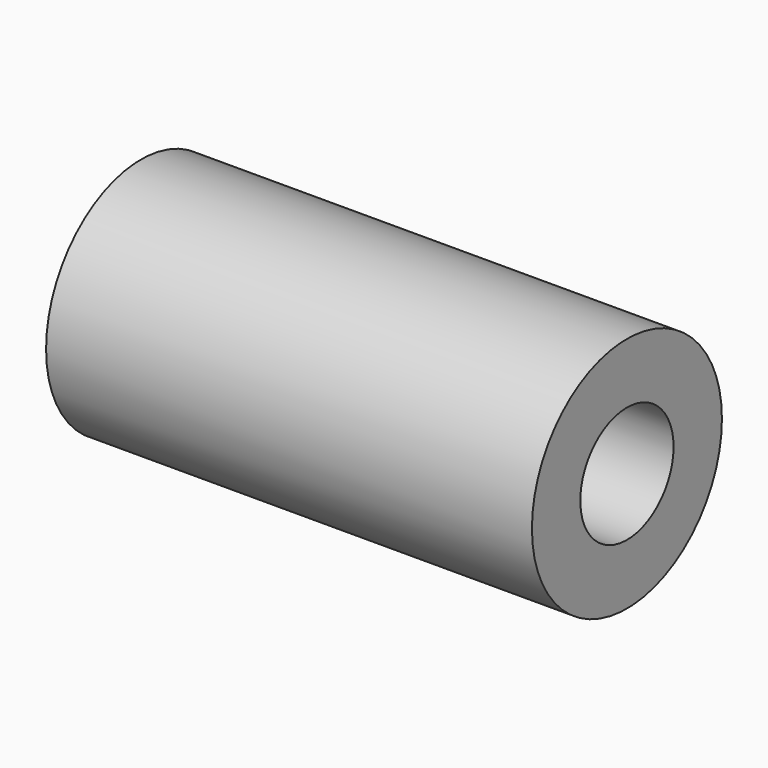
from build123d import *

# Parameters (mm, degrees)
F0_R     = 18.623685
F1_DEPTH = 76.2
F2_R     = 9.142662
F3_DEPTH = 76.2


with BuildPart() as f1:
    # F0 (on Right) → F1 (new body)
    with BuildSketch(Plane.YZ):
        Circle(F0_R)
    extrude(amount=F1_DEPTH)

    # F2 (on Right) → F3 (cut)
    with BuildSketch(Plane.YZ):
        Circle(F2_R)
    extrude(amount=F3_DEPTH, mode=Mode.SUBTRACT)


solid = f1.part
